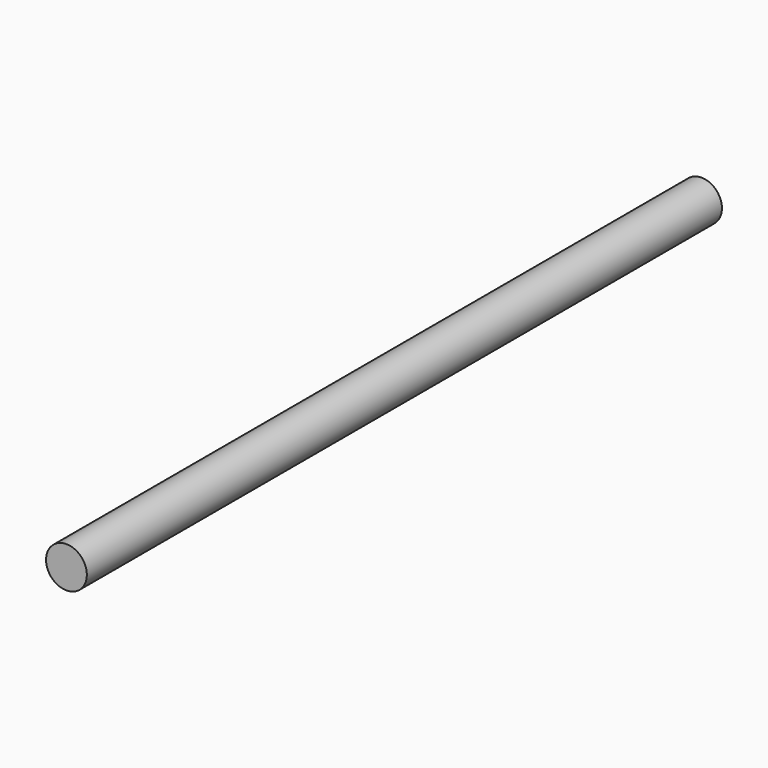
from build123d import *

# Parameters (mm, degrees)
F0_R     = 13.3568816407
F1_DEPTH = 127
F3_R     = 6.35
F4_DEPTH = 127
F6_R     = 6.5291630237
F7_DEPTH = 127


with BuildPart() as f1:
    # F0 (on Top) → F1 (new body, symmetric)
    with BuildSketch(Plane.XY):
        with Locations((-30.3778361085, 35.4953636827)):
            Circle(F0_R)
    extrude(amount=F1_DEPTH, both=True)


with BuildPart() as f4:
    # F3 (on Top) → F4 (new body, symmetric)
    with BuildSketch(Plane.XY):
        with Locations((-33.7284424831, 38.4713762078)):
            Circle(F3_R)
    extrude(amount=F4_DEPTH, both=True)


with BuildPart() as f7:
    # F6 (on Front) → F7 (new body, symmetric)
    with BuildSketch(Plane.XZ):
        with Locations((-33.6283754377, 30.9787562468)):
            Circle(F6_R)
    extrude(amount=F7_DEPTH, both=True)


solid = f7.part
